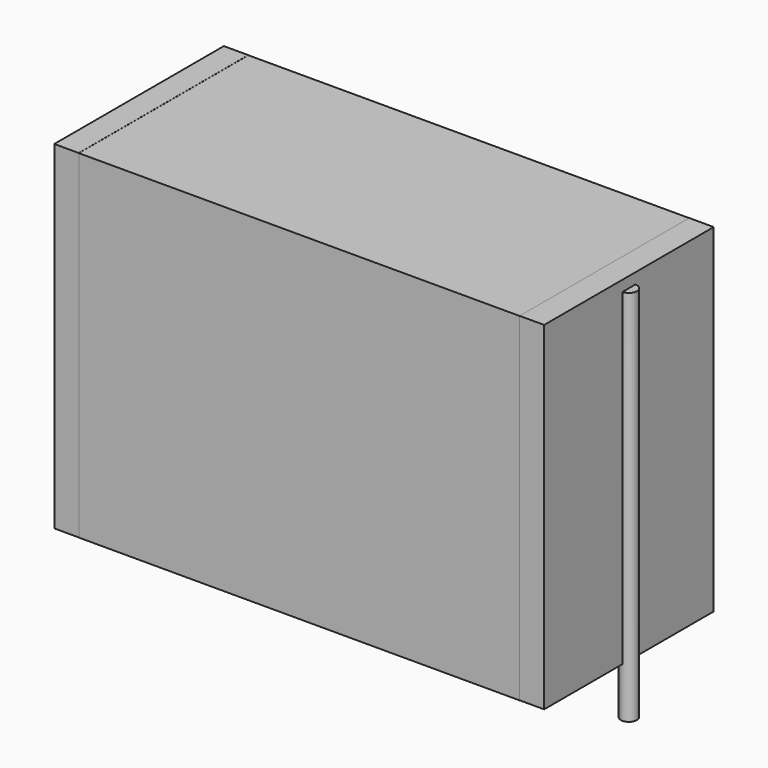
from build123d import *

# Parameters (mm, degrees)
SKETCH_W          = 24.75
SKETCH_H          = 11.9
PAD_DEPTH         = 19
SKETCH001_R       = 0.45
PAD001_DEPTH      = 18
PAD001_DEPTH_BACK = 3.2
SKETCH002_W       = 1.375
SKETCH002_H       = 11.9
PAD002_DEPTH      = 19


with BuildPart() as pad:
    # Sketch → Pad (new body)
    with BuildSketch(Plane.XY.offset(0.1)):
        with Locations((13.75, 0)):
            Rectangle(SKETCH_W, SKETCH_H)
    extrude(amount=PAD_DEPTH)


with BuildPart() as pad001:
    # Sketch001 → Pad001 (new body, two sides)
    with BuildSketch(Plane.XY.offset(0.5)) as pad001_sk:
        Circle(SKETCH001_R)
        with Locations((27.5, 0)):
            Circle(SKETCH001_R)
    extrude(amount=PAD001_DEPTH)
    extrude(pad001_sk.sketch, amount=-PAD001_DEPTH_BACK)


with BuildPart() as pad002:
    # Sketch002 → Pad002 (new body)
    with BuildSketch(Plane.XY.offset(0.105)):
        with Locations((0.6875, 0)):
            Rectangle(SKETCH002_W, SKETCH002_H)
        with Locations((26.8125, 0)):
            Rectangle(SKETCH002_W, SKETCH002_H)
    extrude(amount=PAD002_DEPTH)


solid = Compound([pad.part, pad001.part, pad002.part])
